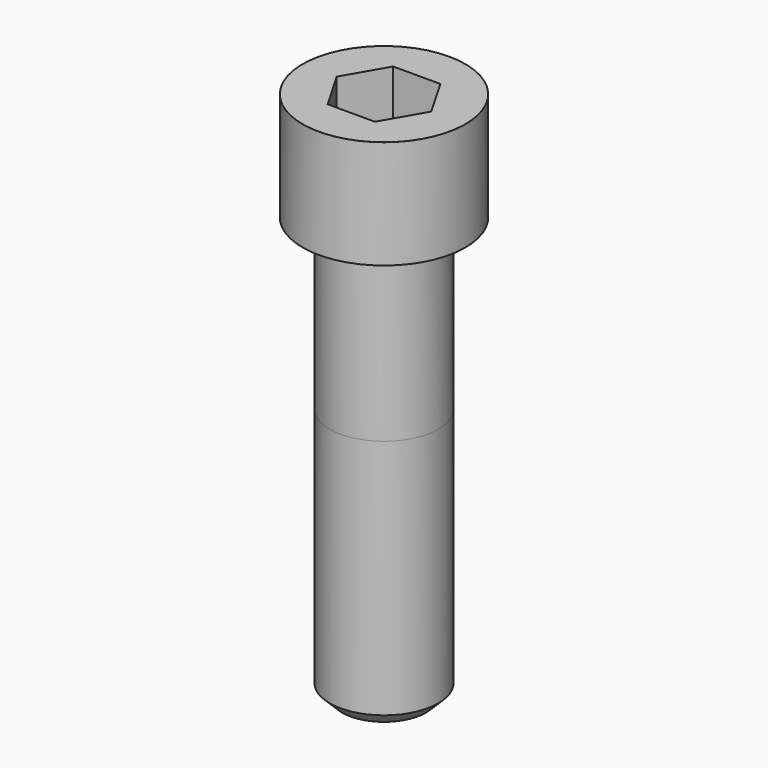
from build123d import *

# Parameters (mm, degrees)
POCKET_DEPTH = 27.15


with BuildPart() as part:
    # Sketch → Revolve (revolve)
    with BuildSketch(Plane.YZ):
        with BuildLine():
            Line((17.999, 0), (27, 0))
            Line((27, 0), (27, 35.97229))
            ThreePointArc((27, 35.97229), (26.991884, 35.991884), (26.97229, 36))
            Line((26.97229, 36), (0, 36))
            Line((0, -140), (0, 36))
            Line((14, -140), (0, -140))
            Line((18, -136), (14, -140))
            Line((18, -56), (18, -136))
            Line((17.999, 0), (18, -56))
        make_face()
    revolve(axis=Axis((0, 0, 0), (0, 0, 1)))

    # Sketch001 → Pocket (cut)
    with BuildSketch(Plane.XY.offset(36)):
        Polygon((15.67506, 0), (7.83753, 13.575), (-7.83753, 13.575), (-15.67506, 0), (-7.83753, -13.575), (7.83753, -13.575), align=None)
    extrude(amount=-POCKET_DEPTH, mode=Mode.SUBTRACT)


solid = part.part
